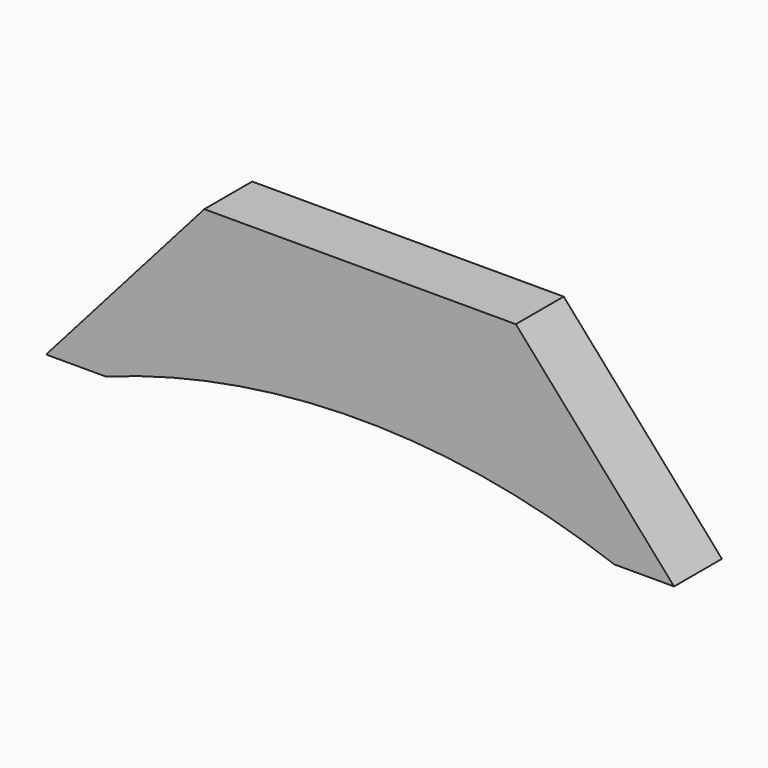
from build123d import *

# Parameters (mm, degrees)
F0_W     = 317.5
F0_H     = 76.2
F1_DEPTH = 25.4
F3_DEPTH = 50.8
F5_DEPTH = 508


with BuildPart() as f1:
    # F0 (on Front) → F1 (new body)
    with BuildSketch(Plane.XZ):
        with Locations((24.531897, 23.258603)):
            Rectangle(F0_W, F0_H)
    extrude(amount=F1_DEPTH)

    # F2 (on face) → F3 (cut)
    with BuildSketch(Plane.XZ.offset(25.4)):
        Polygon((-134.218103, -14.841397), (-108.818103, -14.841397), (-41.616019, 61.358603), (-134.218103, 61.358603), align=None)
        Polygon((90.679814, 61.358603), (157.881897, -14.841397), (183.281897, -14.841397), (183.281897, 61.358603), align=None)
    extrude(amount=-F3_DEPTH, mode=Mode.SUBTRACT)

    # F4 (on face) → F5 (cut)
    with BuildSketch(Plane.XZ.offset(25.4)):
        with BuildLine():
            Line((-83.418103, -14.841397), (132.481897, -14.841397))
            ThreePointArc((132.481897, -14.841397), (24.531897, 4.208603), (-83.418103, -14.841397))
        make_face()
    extrude(amount=-F5_DEPTH, mode=Mode.SUBTRACT)


solid = f1.part
